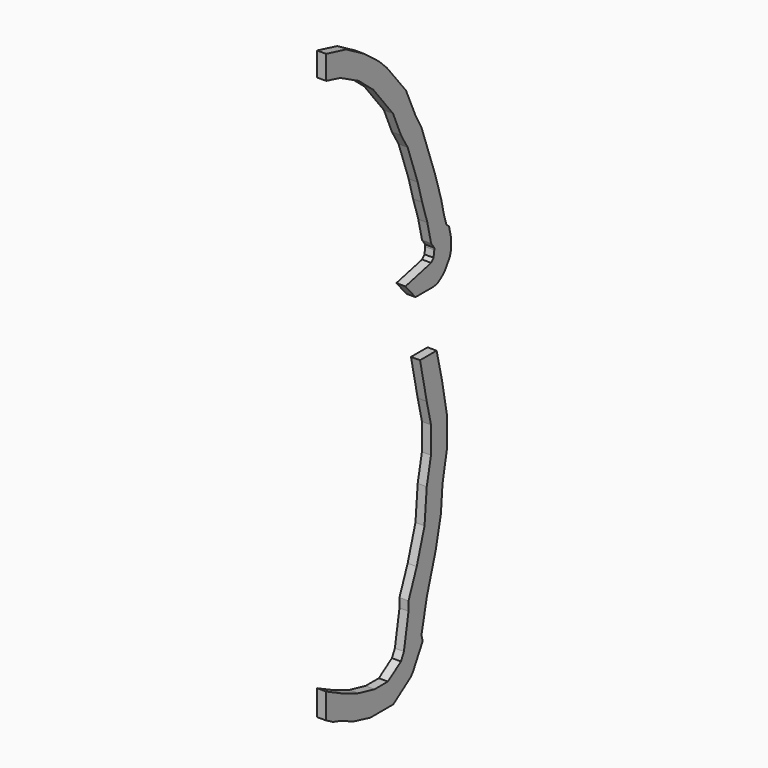
from build123d import *

# Parameters (mm, degrees)
F1_DEPTH = 34.925


with BuildPart() as f1:
    # F0 (on Right) → F1 (new body, symmetric)
    with BuildSketch(Plane.YZ):
        Polygon((0, 350.3441957332), (0, 153.9044350681), (66.545981199, 117.1606754217), (141.2781657966, 94.3013869244), (259.5944866446, 41.0210398331), (425.2699246819, 0), (646.8094668392, 0), (810.3947972327, 113.5070205467), (833.8203634852, 138.8704849541), (929.787701284, 313.018094407), (918.7828775607, 362.6985941281), (973.0521689621, 608.6856846322), (1054.4487625531, 874.7895600253), (1106.0773858303, 1107.3055545564), (1121.18357592, 1302.6851334089), (1165.2301725068, 1529.5247187173), (1165.2301725068, 1750.3313428338), (1118.6396285553, 2000.6609793652), (1064.646047002, 2231.8904325191), (904.8504565538, 2231.8904325191), (969.5265388502, 1925.7624502381), (1010.5726996796, 1750.3313428338), (1010.5726996796, 1544.1645388312), (969.5265388502, 1346.4944701282), (948.1857828979, 1090.0133952791), (872.9204127305, 843.9538760676), (794.0403696346, 643.6968190836), (794.0403696346, 572.6459441288), (749.5960138581, 317.2094646777), (721.1919633948, 261.5375675371), (595.078105659, 176.3254925512), (466.691891287, 176.3254925512), (313.3101614059, 211.5464855828), (161.8546271347, 271.2039206358), align=None)
    extrude(amount=F1_DEPTH, both=True)


with BuildPart() as f1b:
    # F0 (on Right) → F1, piece 2 (new body, symmetric)
    with BuildSketch(Plane.YZ):
        Polygon((1012.2641822218, 2849.3614280556), (763.9474853009, 2790.4932717226), (860.7825687209, 2677.9225811069), (1037.452554841, 2677.9225811069), (1074.8111399017, 2686.5298485251), (1126.9234179405, 2722.4205471477), (1154.3956787528, 2755.2971099888), (1192.649630175, 2819.5854674866), (1202.4199508907, 2854.8101533779), (1202.4199508907, 2949.0123053893), (1184.4139343749, 3027.1647859531), (1159.1630841978, 3048.2648609564), (1136.560947524, 3121.4047414268), (1109.444051396, 3239.1016621045), (1052.2738974126, 3429.1489553207), (918.8863795038, 3805.290093518), (859.911461324, 3914.3937736483), (769.5786124235, 4118.193174447), (583.7114835589, 4348.6956690716), (507.9947695343, 4422.3927199343), (364.7368998644, 4532.0619933598), (192.7900055698, 4631.2620859919), (0, 4679.7600811069), (0, 4496.0624691033), (137.6759594531, 4459.792780326), (313.8824018485, 4368.4189015473), (455.3306684024, 4250.2221274809), (644.6233448437, 4012.2381538213), (721.5196855906, 3833.4792959519), (785.4335107126, 3725.6245664339), (882.4089737365, 3450.1076913059), (925.5751925752, 3295.7056115608), (975.3823446493, 3137.9831161338), (1011.2339507746, 2982.3744645247), (1042.4333686769, 2938.8335605023), (1042.4333686769, 2923.8987191018), (1034.7411164921, 2875.0494693611), align=None)
    extrude(amount=F1_DEPTH, both=True)


solid = Compound([f1.part, f1b.part])
